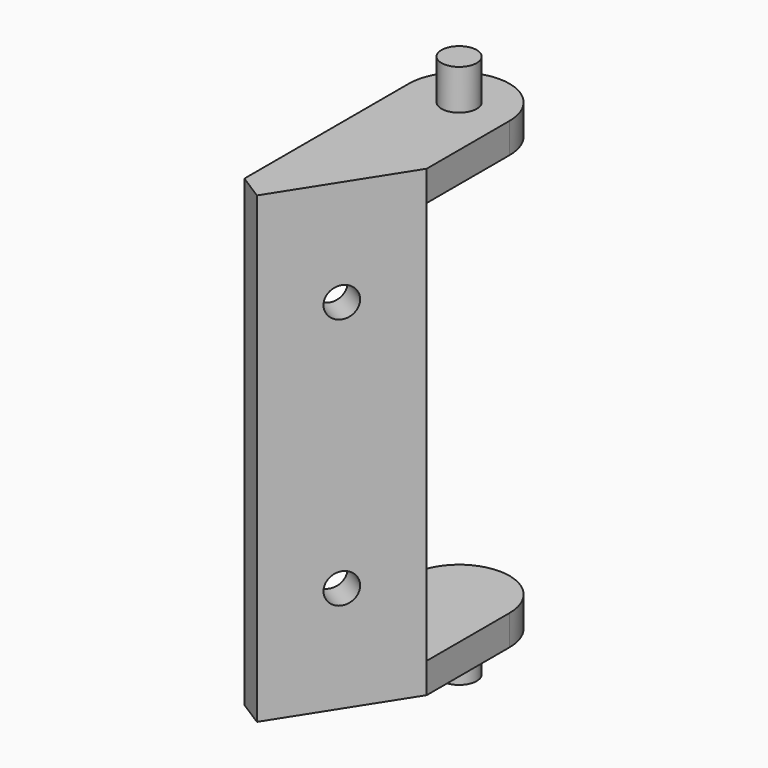
from build123d import *

# Parameters (mm, degrees)
F0_R     = 1.75
F1_DEPTH = 23
F2_DEPTH = 27
F3_DEPTH = 20
F4_R     = 1.5
F5_DEPTH = 9.300987


with BuildPart() as f1:
    # F0 (on Top) → F1 (new body, symmetric)
    with BuildSketch(Plane.XY):
        Polygon((-2.469826, -22), (5, -10.274722), (2.469826, -8.662824), (-5, -20.388101), align=None)
        with BuildLine():
            Line((5, -10.274722), (5, 0))
            ThreePointArc((5, 0), (0, 5), (-5, 0))
            Line((-5, 0), (-5, -20.388101))
            Line((-5, -20.388101), (2.469826, -8.662824))
            Line((2.469826, -8.662824), (5, -10.274722))
        make_face()
        Circle(F0_R, mode=Mode.SUBTRACT)
    extrude(amount=F1_DEPTH, both=True)

    # F0 (on Top) → F2 (join, symmetric)
    with BuildSketch(Plane.XY):
        Circle(F0_R)
    extrude(amount=F2_DEPTH, both=True)

    # F0 (on Top) → F3 (cut, symmetric)
    with BuildSketch(Plane.XY):
        with BuildLine():
            Line((5, -10.274722), (5, 0))
            ThreePointArc((5, 0), (0, 5), (-5, 0))
            Line((-5, 0), (-5, -20.388101))
            Line((-5, -20.388101), (2.469826, -8.662824))
            Line((2.469826, -8.662824), (5, -10.274722))
        make_face()
        Circle(F0_R, mode=Mode.SUBTRACT)
        Circle(F0_R)
    extrude(amount=F3_DEPTH, both=True, mode=Mode.SUBTRACT)

    # F4 (on face) → F5 (cut, through all)
    with BuildSketch(Plane(origin=(5.682402, -3.620089, 0), x_dir=(-0.5373, -0.843391, 0), z_dir=(-0.843391, 0.5373, 0))):
        with Locations((12.930382, -12.5)):
            Circle(F4_R)
        with Locations((12.930382, 12.5)):
            Circle(F4_R)
    extrude(amount=-F5_DEPTH, mode=Mode.SUBTRACT)


solid = f1.part
